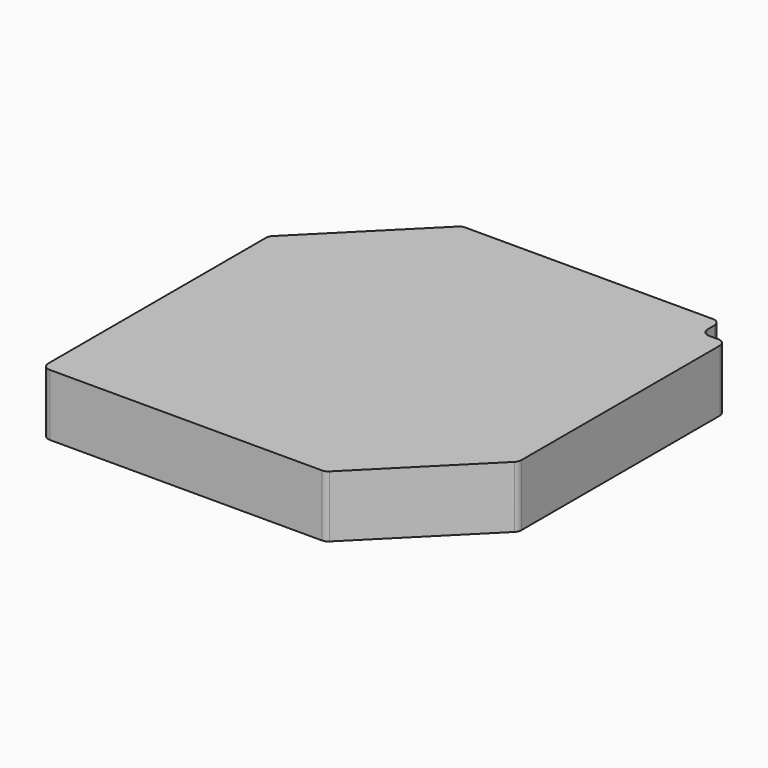
from build123d import *

# Parameters (mm, degrees)
SKETCH001_W  = 7.6
SKETCH001_H  = 7.6
PAD001_DEPTH = 1.2
POCKET_DEPTH = 5
FILLET_R     = 0.15


with BuildPart() as part:
    # Sketch001 → Pad001 (new body)
    with BuildSketch(Plane.XY):
        Rectangle(SKETCH001_W, SKETCH001_H)
    extrude(amount=PAD001_DEPTH)

    # Sketch002 → Pocket (cut)
    with BuildSketch(Plane.XY.offset(1.2)):
        Polygon((-4.51175, 4.275026), (-1.233854, 4.275026), (-4.51175, 0.99713), align=None)
        Polygon((3.320655, 4.59318), (3.320655, 3.330028), (4.467743, 3.330028), align=None)
        Polygon((4.51175, -0.99713), (1.233854, -4.275026), (4.51175, -4.275026), align=None)
    extrude(amount=-POCKET_DEPTH, mode=Mode.SUBTRACT)

    # Fillet
    fillet_edges = [part.edges().sort_by_distance(p)[0] for p in [
        (-3.8, 1.70888, 0.6),
        (-3.8, -3.8, 0.6),
        (1.70888, -3.8, 0.6),
        (3.8, -1.70888, 0.6),
        (3.8, 3.330028, 0.6),
        (3.320655, 3.330028, 0.6),
        (3.320655, 3.8, 0.6),
        (-1.70888, 3.8, 0.6),
    ]]
    fillet(fillet_edges, radius=FILLET_R)


solid = part.part
